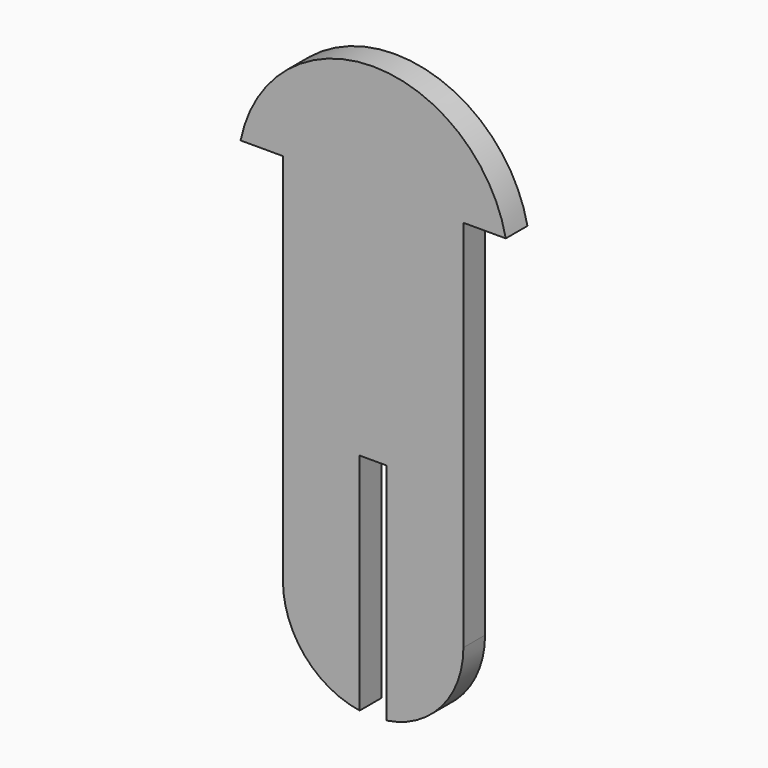
from build123d import *

# Parameters (mm, degrees)
F1_DEPTH = 3


with BuildPart() as f1:
    # F0 (on Front) → F1 (new body)
    with BuildSketch(Plane.XZ):
        with BuildLine():
            Line((10, -20.725), (10, 20.725))
            Line((10, 20.725), (14.696938, 20.725))
            ThreePointArc((14.696938, 20.725), (0, 32.725), (-14.696938, 20.725))
            Line((-14.696938, 20.725), (-10, 20.725))
            Line((-10, 20.725), (-10, -20.725))
            ThreePointArc((-10, -20.725), (-7.582875, -27.244202), (-1.5, -30.61186))
            Line((-1.5, -30.61186), (-1.5, -5.725))
            Line((-1.5, -5.725), (1.5, -5.725))
            Line((1.5, -5.725), (1.5, -30.61186))
            ThreePointArc((1.5, -30.61186), (7.582875, -27.244202), (10, -20.725))
        make_face()
    extrude(amount=F1_DEPTH)


solid = f1.part
